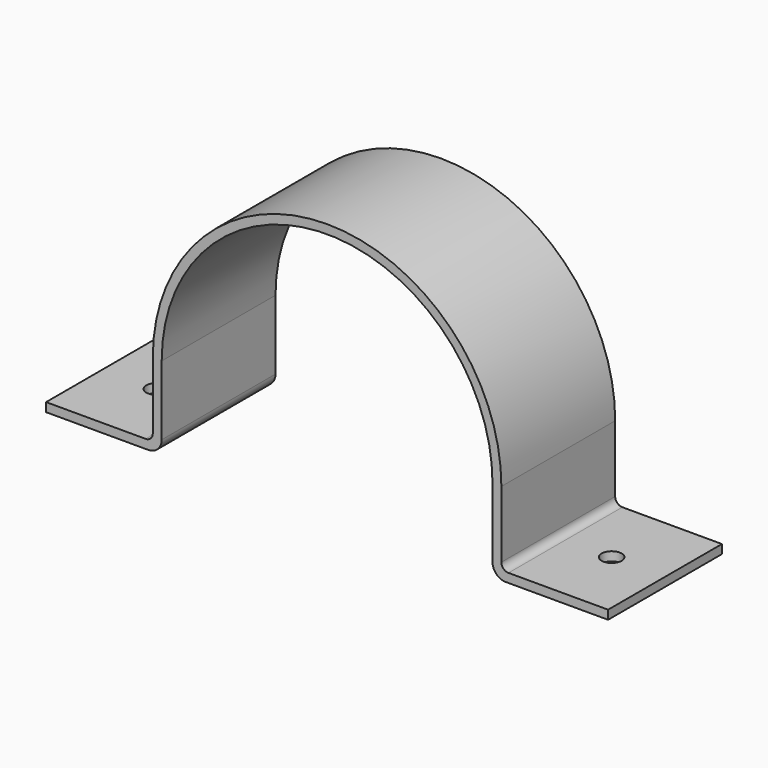
from build123d import *

# Parameters (mm, degrees)
F1_DEPTH = 50.8
F3_R     = 9.525
F4_R     = 5.08
F2_R     = 7.14375
F5_DEPTH = 25.4


with BuildPart() as f1:
    # F0 (on Front) → F1 (new body, symmetric)
    with BuildSketch(Plane.XZ):
        with BuildLine():
            ThreePointArc((-118.11, 0), (0, 118.11), (118.11, 0))
            Line((118.11, 0), (118.11, -59.055))
            Line((118.11, -59.055), (200.66, -59.055))
            Line((200.66, -59.055), (200.66, -52.705))
            Line((200.66, -52.705), (124.46, -52.705))
            Line((124.46, -52.705), (124.46, 0))
            ThreePointArc((124.46, 0), (0, 124.46), (-124.46, 0))
            Line((-124.46, 0), (-124.46, -52.705))
            Line((-124.46, -52.705), (-200.66, -52.705))
            Line((-200.66, -52.705), (-200.66, -59.055))
            Line((-200.66, -59.055), (-118.11, -59.055))
            Line((-118.11, -59.055), (-118.11, 0))
        make_face()
    extrude(amount=F1_DEPTH, both=True)

    # F3
    f3_edges = [f1.edges().sort_by_distance(p)[0] for p in [
        (-118.11, 0, -59.055),
        (118.11, 0, -59.055),
    ]]
    fillet(f3_edges, radius=F3_R)

    # F4
    f4_edges = [f1.edges().sort_by_distance(p)[0] for p in [
        (-124.46, 0, -52.705),
        (124.46, 0, -52.705),
    ]]
    fillet(f4_edges, radius=F4_R)

    # F2 (on face) → F5 (cut)
    with BuildSketch(Plane(origin=(0, 0, -59.055), x_dir=(1, 0, 0), z_dir=(0, 0, -1))):
        with Locations((-162.56, 0)):
            Circle(F2_R)
        with Locations((162.56, 0)):
            Circle(F2_R)
    extrude(amount=-F5_DEPTH, mode=Mode.SUBTRACT)


solid = f1.part
